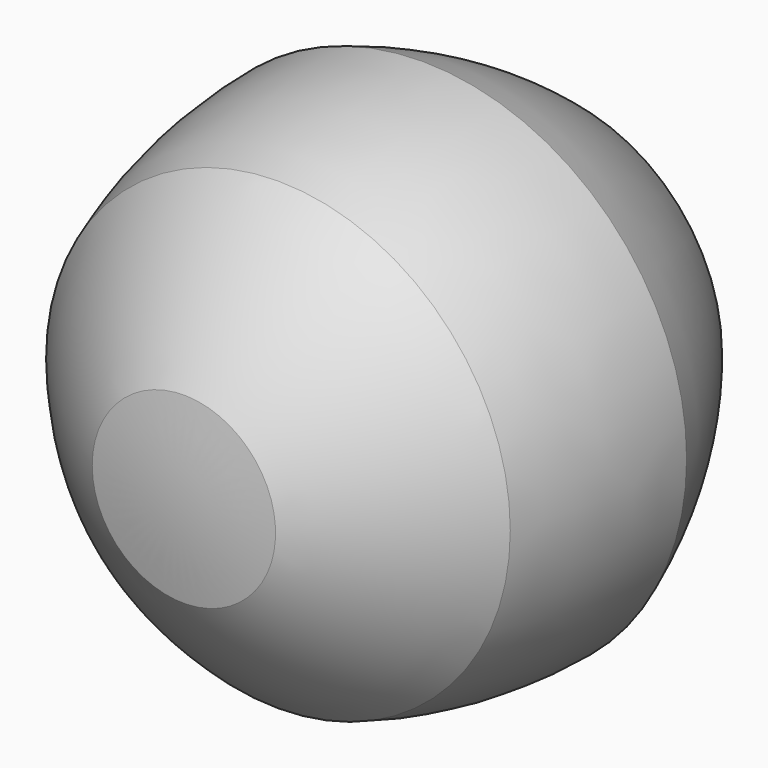
from build123d import *


with BuildPart() as f1:
    # F0 (on Top) → F1 (revolve)
    with BuildSketch(Plane.XY):
        Polygon((0, -50.8), (0, 54.0602308418), (-34.7492465619, 41.4125394301), (-53.2389344626, 9.3874605699), (-46.8175332434, -27.0301154209), (-18.4896879007, -50.8), align=None)
        with BuildLine():
            Line((-46.8175332434, -27.0301154209), (-53.2389344626, 9.3874605699))
            ThreePointArc((-53.2389344626, 9.3874605699), (-51.6212963792, -9.1022273308), (-46.8175332434, -27.0301154209))
        make_face()
        with BuildLine():
            Line((-34.7492465619, 41.4125394301), (0, 54.0602308418))
            ThreePointArc((0, 54.0602308418), (-17.9278880901, 49.256467706), (-34.7492465619, 41.4125394301))
        make_face()
        with BuildLine():
            Line((-53.2389344626, 9.3874605699), (-34.7492465619, 41.4125394301))
            ThreePointArc((-34.7492465619, 41.4125394301), (-45.3950061866, 26.2088190417), (-53.2389344626, 9.3874605699))
        make_face()
        with BuildLine():
            ThreePointArc((-46.8175332434, -27.0301154209), (-33.6934082891, -40.1542403752), (-18.4896879007, -50.8))
            Line((-18.4896879007, -50.8), (-46.8175332434, -27.0301154209))
        make_face()
        with BuildLine():
            Line((0, -52.4176380834), (0, -50.8))
            Line((0, -50.8), (-18.4896879007, -50.8))
            ThreePointArc((-18.4896879007, -50.8), (-9.2801577524, -52.0124576456), (0, -52.4176380834))
        make_face()
    revolve(axis=Axis((0, 0, 0), (0, -1, 0)))


solid = f1.part
